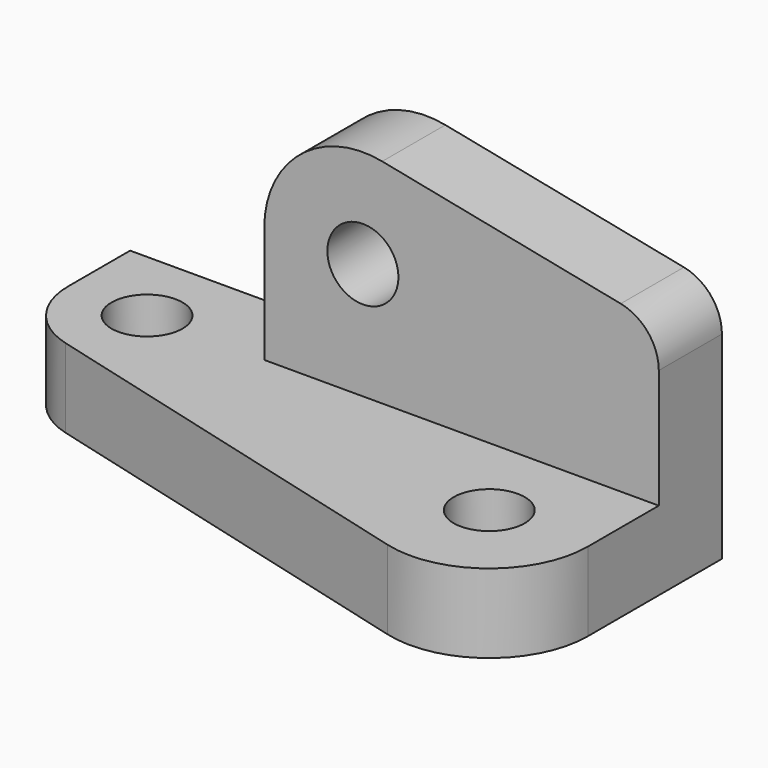
from build123d import *

# Parameters (mm, degrees)
F1_DEPTH = 20
F3_DEPTH = 20
F4_R     = 20
F5_R     = 25
F6_R     = 25
F7_R     = 12
F10_D    = 18
F11_D    = 18
F13_D    = 18


with BuildPart() as f1:
    # F0 (on Top) → F1 (new body)
    with BuildSketch(Plane.XY):
        Polygon((51.892916, 64.117395), (-98.107084, 64.117395), (-98.107084, 29.117395), (51.892916, -10.882605), align=None)
    extrude(amount=F1_DEPTH)

    # F2 (on face) → F3 (join)
    with BuildSketch(Plane(origin=(0, 64.117395, 0), x_dir=(-1, 0, 0), z_dir=(0, 1, 0))):
        Polygon((-51.892916, 60), (-51.892916, 20), (48.107084, 20), (48.107084, 80), align=None)
    extrude(amount=-F3_DEPTH)

    # F4
    f4_edges = [f1.edges().sort_by_distance(p)[0] for p in [
        (-98.107084, 29.117395, 10),
    ]]
    fillet(f4_edges, radius=F4_R)

    # F5
    f5_edges = [f1.edges().sort_by_distance(p)[0] for p in [
        (51.892916, -10.882605, 10),
    ]]
    fillet(f5_edges, radius=F5_R)

    # F6
    f6_edges = [f1.edges().sort_by_distance(p)[0] for p in [
        (-48.107084, 54.117395, 80),
    ]]
    fillet(f6_edges, radius=F6_R)

    # F7
    f7_edges = [f1.edges().sort_by_distance(p)[0] for p in [
        (51.892916, 54.117395, 60),
    ]]
    fillet(f7_edges, radius=F7_R)

    # F10 (through all)
    with Locations(Plane.XZ.offset(-44.117395)):
        with Locations((-23.107084, 49.504902)):
            Hole(F10_D / 2)

    # F11 (through all)
    with Locations(Plane.XY.offset(20)):
        with Locations((-78.107084, 44.482961)):
            Hole(F11_D / 2)

    # F13 (through all)
    with Locations(Plane.XY.offset(20)):
        with Locations((26.892916, 21.657686)):
            Hole(F13_D / 2)


solid = f1.part
